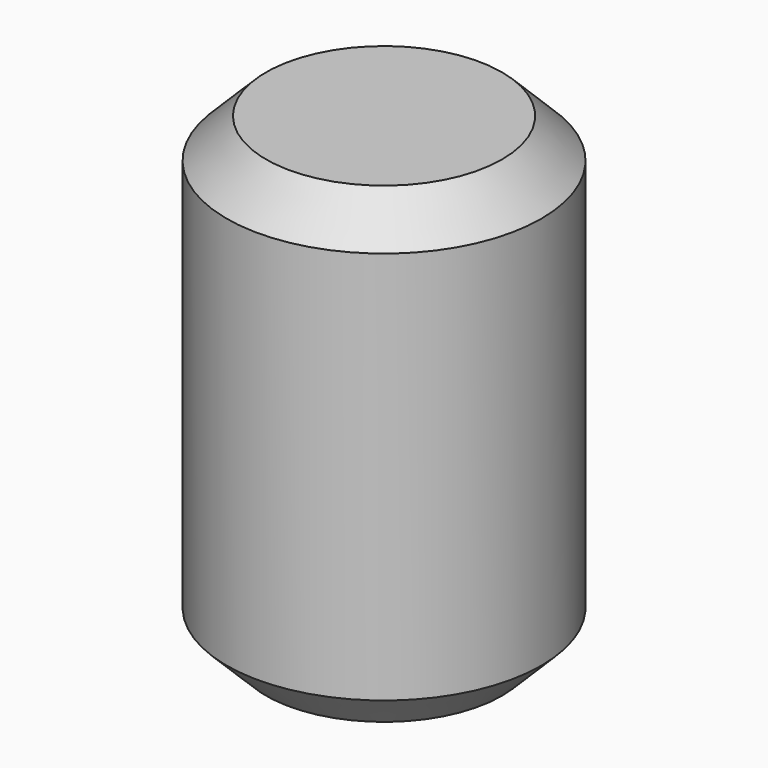
from build123d import *

# Parameters (mm, degrees)
F0_R     = 4
F1_DEPTH = 12
F2_SIZE2 = 1
F2_SIZE  = 1


with BuildPart() as f1:
    # F0 (on Top) → F1 (new body)
    with BuildSketch(Plane.XY):
        Circle(F0_R)
    extrude(amount=F1_DEPTH)

    # F2
    f2_edges = [f1.edges().sort_by_distance(p)[0] for p in [
        (-4, 0, 12),
        (-4, 0, 0),
    ]]
    chamfer(f2_edges, length=F2_SIZE, length2=F2_SIZE2)


solid = f1.part
